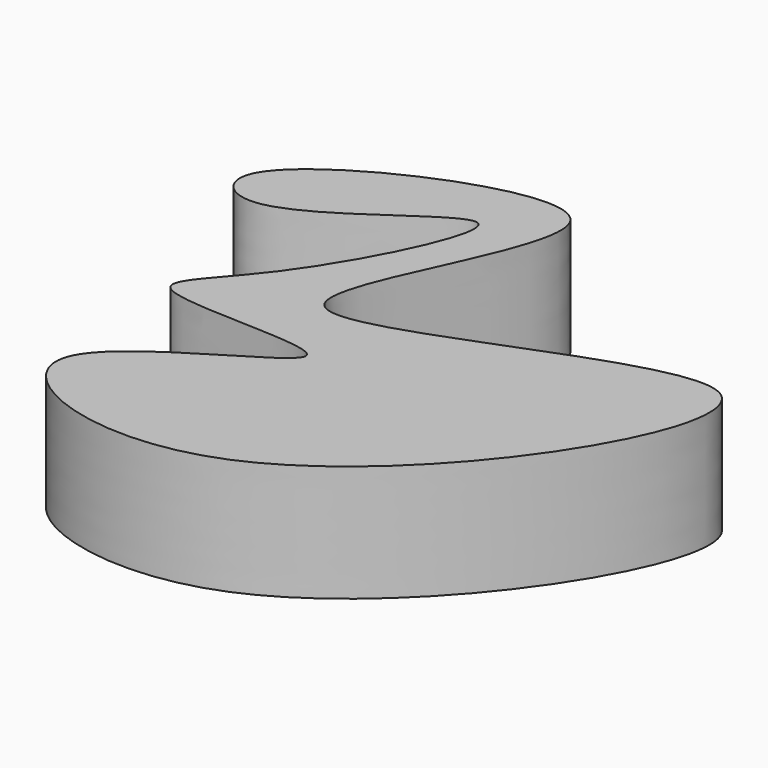
from build123d import *

# Parameters (mm, degrees)
F1_DEPTH = 25


with BuildPart() as f1:
    # F0 (on Top) → F1 (new body)
    with BuildSketch(Plane.XY):
        with BuildLine():
            add(Edge.make_bspline(
                [(-66.1250054836, 39.8723967373), (-59.8945066934, 51.4623990074), (17.7707150564, 85.2027095931), (-62.8916395119, -24.5102169507), (86.8127695637, 66.1338050253), (4.42743267, -68.6922478949), (-75.8017796264, -33.3253123653), (8.838643315, -0.6616360943), (-63.5660840652, -6.867843622), (-38.5130540126, 11.9839395966), (-11.7573265057, 68.129500371), (-57.9589139431, 23.1673108221), (-68.9015037452, 34.7075420062), (-66.1250054836, 39.8723967373)],
                knots=[0, 0, 0, 0, 0.1046027517, 0.2053342277, 0.325513677, 0.4560468836, 0.5508027762, 0.6398023601, 0.7199206192, 0.7801079029, 0.8672782548, 0.9533858575, 1, 1, 1, 1], degree=3))
        make_face()
    extrude(amount=F1_DEPTH)


solid = f1.part
